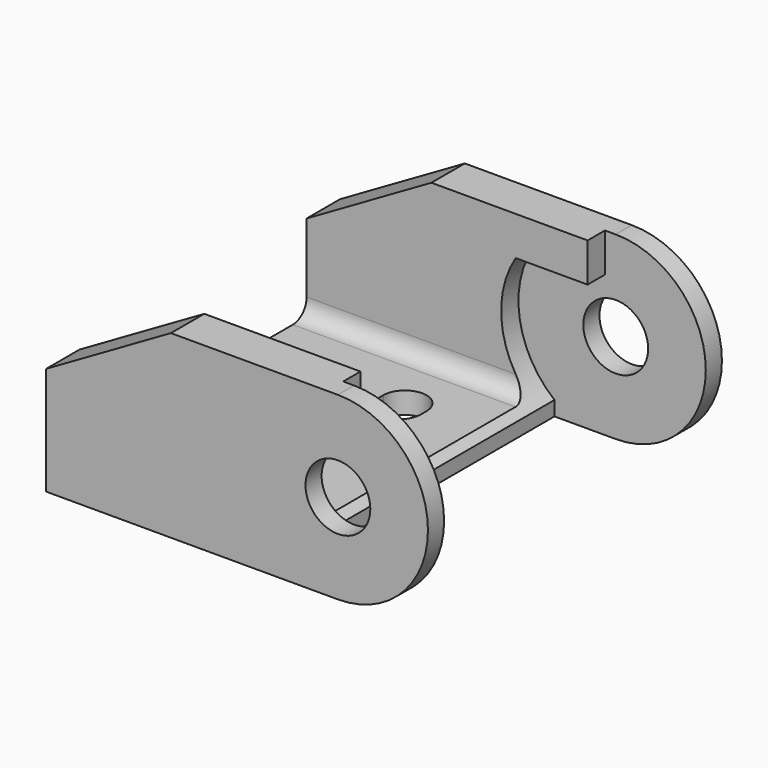
from build123d import *

# Parameters (mm, degrees)
SKETCH002_W     = 16
SKETCH002_H     = 25.5
PAD_DEPTH       = 1.5
SKETCH003_R     = 2.25
PAD001_DEPTH    = 2.9
SKETCH004_R     = 2.25
PAD002_DEPTH    = 2.9
POCKET_DEPTH    = 11.35
POCKET001_DEPTH = 11.35
FILLET_R        = 1.2


with BuildPart() as part:
    # Sketch002 → Pad (new body)
    with BuildSketch(Plane.XY):
        Rectangle(SKETCH002_W, SKETCH002_H)
        with BuildLine():
            ThreePointArc((1, 4.75), (2.5, 3.25), (4, 4.75))
            Line((4, 4.75), (4, 5.25))
            ThreePointArc((4, 5.25), (2.5, 6.75), (1, 5.25))
            Line((1, 4.75), (1, 5.25))
        make_face(mode=Mode.SUBTRACT)
        with BuildLine():
            ThreePointArc((-1, -4.75), (-2.5, -3.25), (-4, -4.75))
            Line((-4, -4.75), (-4, -5.25))
            ThreePointArc((-4, -5.25), (-2.5, -6.75), (-1, -5.25))
            Line((-1, -4.75), (-1, -5.25))
        make_face(mode=Mode.SUBTRACT)
    extrude(amount=PAD_DEPTH)

    # Sketch003 → Pad001 (join)
    with BuildSketch(Plane.XZ.offset(12.75)):
        with BuildLine():
            ThreePointArc((12.25, 0), (18.500032, 6.25), (12.25, 12.5))
            Line((12.25, 12.5), (0.660254, 12.5))
            Line((0.660254, 12.5), (-8, 7.5))
            Line((-8, 7.5), (-8, 0))
            Line((-8, 0), (12.25, 0))
        make_face()
        with Locations((12.25, 6.25)):
            Circle(SKETCH003_R, mode=Mode.SUBTRACT)
    extrude(amount=-PAD001_DEPTH)

    # Sketch004 → Pad002 (join)
    with BuildSketch(Plane.XZ.offset(-12.75)):
        with BuildLine():
            Line((12.25, 0), (-8, 0))
            Line((-8, 0), (-8, 7.5))
            Line((-8, 7.5), (0.660254, 12.5))
            Line((0.660254, 12.5), (12.25, 12.5))
            ThreePointArc((12.25, 0), (18.500035, 6.25), (12.25, 12.5))
        make_face()
        with Locations((12.250035, 6.25)):
            Circle(SKETCH004_R, mode=Mode.SUBTRACT)
    extrude(amount=PAD002_DEPTH)

    # Sketch005 → Pocket (cut)
    with BuildSketch(Plane.XZ.offset(11.35)):
        with BuildLine():
            Line((18.6, 12.5), (18.6, 0))
            Line((8, 0), (18.6, 0))
            Line((8, 1.005956), (8, 0))
            ThreePointArc((6.50892, 9.8), (5.594985, 5.121605), (8, 1.005956))
            Line((6.50892, 9.8), (11.5, 9.8))
            Line((11.5, 9.8), (11.5, 12.5))
            Line((11.5, 12.5), (18.6, 12.5))
        make_face()
    extrude(amount=-POCKET_DEPTH, mode=Mode.SUBTRACT)

    # Sketch006 → Pocket001 (cut)
    with BuildSketch(Plane.XZ.offset(-11.35)):
        with BuildLine():
            Line((18.6, 12.5), (18.6, 0))
            Line((8, 0), (18.6, 0))
            Line((8, 1.005956), (8, 0))
            ThreePointArc((6.50892, 9.8), (5.594985, 5.121605), (8, 1.005956))
            Line((6.50892, 9.8), (11.5, 9.8))
            Line((11.5, 9.8), (11.5, 12.5))
            Line((11.5, 12.5), (18.6, 12.5))
        make_face()
    extrude(amount=POCKET001_DEPTH, mode=Mode.SUBTRACT)

    # Fillet
    fillet_edges = [part.edges().sort_by_distance(p)[0] for p in [
        (-0.272916, 9.85, 1.5),
        (-0.272916, -9.85, 1.5),
    ]]
    fillet(fillet_edges, radius=FILLET_R)


solid = part.part
